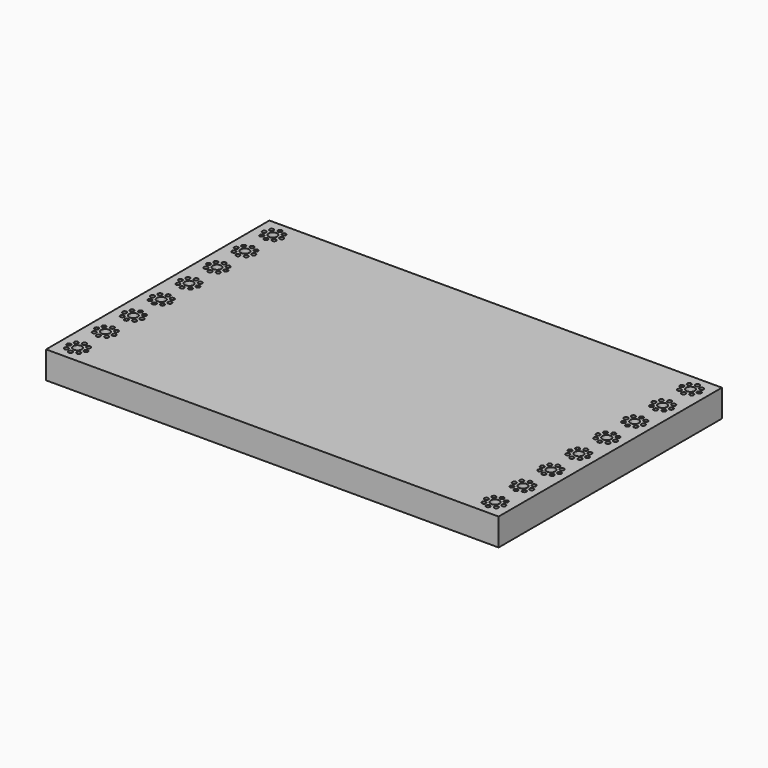
from build123d import *

# Parameters (mm, degrees)
F0_W     = 415
F0_H     = 256
F0_R     = 1.85
F0_R_2   = 4
F1_DEPTH = 25


with BuildPart() as f1:
    # F0 (on Top) → F1 (new body)
    with BuildSketch(Plane.XY):
        with Locations((-120.729751, 59.1083)):
            Rectangle(F0_W, F0_H)
        with Locations((-317.886606, -58.548554)):
            Circle(F0_R, mode=Mode.SUBTRACT)
        with Locations((-312.229751, -60.8917)):
            Circle(F0_R, mode=Mode.SUBTRACT)
        with Locations((-306.572897, -58.548554)):
            Circle(F0_R, mode=Mode.SUBTRACT)
        with Locations((-320.229751, -52.8917)):
            Circle(F0_R, mode=Mode.SUBTRACT)
        with Locations((-317.886606, -47.234846)):
            Circle(F0_R, mode=Mode.SUBTRACT)
        with Locations((-312.229751, -52.8917)):
            Circle(F0_R_2, mode=Mode.SUBTRACT)
        with Locations((-304.229751, -52.8917)):
            Circle(F0_R, mode=Mode.SUBTRACT)
        with Locations((-306.572897, -47.234846)):
            Circle(F0_R, mode=Mode.SUBTRACT)
        with Locations((-312.229751, -44.8917)):
            Circle(F0_R, mode=Mode.SUBTRACT)
        with Locations((-317.886606, -26.548554)):
            Circle(F0_R, mode=Mode.SUBTRACT)
        with Locations((-312.229751, -28.8917)):
            Circle(F0_R, mode=Mode.SUBTRACT)
        with Locations((-306.572897, -26.548554)):
            Circle(F0_R, mode=Mode.SUBTRACT)
        with Locations((-320.229751, -20.8917)):
            Circle(F0_R, mode=Mode.SUBTRACT)
        with Locations((-317.886606, -15.234846)):
            Circle(F0_R, mode=Mode.SUBTRACT)
        with Locations((-312.229751, -20.8917)):
            Circle(F0_R_2, mode=Mode.SUBTRACT)
        with Locations((-304.229751, -20.8917)):
            Circle(F0_R, mode=Mode.SUBTRACT)
        with Locations((-306.572897, -15.234846)):
            Circle(F0_R, mode=Mode.SUBTRACT)
        with Locations((-312.229751, -12.8917)):
            Circle(F0_R, mode=Mode.SUBTRACT)
        with Locations((-317.886606, 5.451446)):
            Circle(F0_R, mode=Mode.SUBTRACT)
        with Locations((-312.229751, 3.1083)):
            Circle(F0_R, mode=Mode.SUBTRACT)
        with Locations((-306.572897, 5.451446)):
            Circle(F0_R, mode=Mode.SUBTRACT)
        with Locations((-320.229751, 11.1083)):
            Circle(F0_R, mode=Mode.SUBTRACT)
        with Locations((-317.886606, 16.765154)):
            Circle(F0_R, mode=Mode.SUBTRACT)
        with Locations((-312.229751, 11.1083)):
            Circle(F0_R_2, mode=Mode.SUBTRACT)
        with Locations((-304.229751, 11.1083)):
            Circle(F0_R, mode=Mode.SUBTRACT)
        with Locations((-306.572897, 16.765154)):
            Circle(F0_R, mode=Mode.SUBTRACT)
        with Locations((-312.229751, 19.1083)):
            Circle(F0_R, mode=Mode.SUBTRACT)
        with Locations((-317.886606, 37.451446)):
            Circle(F0_R, mode=Mode.SUBTRACT)
        with Locations((-312.229751, 35.1083)):
            Circle(F0_R, mode=Mode.SUBTRACT)
        with Locations((-306.572897, 37.451446)):
            Circle(F0_R, mode=Mode.SUBTRACT)
        with Locations((-320.229751, 43.1083)):
            Circle(F0_R, mode=Mode.SUBTRACT)
        with Locations((-317.886606, 48.765154)):
            Circle(F0_R, mode=Mode.SUBTRACT)
        with Locations((-312.229751, 43.1083)):
            Circle(F0_R_2, mode=Mode.SUBTRACT)
        with Locations((-304.229751, 43.1083)):
            Circle(F0_R, mode=Mode.SUBTRACT)
        with Locations((-306.572897, 48.765154)):
            Circle(F0_R, mode=Mode.SUBTRACT)
        with Locations((-312.229751, 51.1083)):
            Circle(F0_R, mode=Mode.SUBTRACT)
        with Locations((65.113394, -58.548554)):
            Circle(F0_R, mode=Mode.SUBTRACT)
        with Locations((70.770249, -60.8917)):
            Circle(F0_R, mode=Mode.SUBTRACT)
        with Locations((62.770249, -52.8917)):
            Circle(F0_R, mode=Mode.SUBTRACT)
        with Locations((70.770249, -52.8917)):
            Circle(F0_R_2, mode=Mode.SUBTRACT)
        with Locations((76.427103, -58.548554)):
            Circle(F0_R, mode=Mode.SUBTRACT)
        with Locations((78.770249, -52.8917)):
            Circle(F0_R, mode=Mode.SUBTRACT)
        with Locations((65.113394, -47.234846)):
            Circle(F0_R, mode=Mode.SUBTRACT)
        with Locations((70.770249, -44.8917)):
            Circle(F0_R, mode=Mode.SUBTRACT)
        with Locations((76.427103, -47.234846)):
            Circle(F0_R, mode=Mode.SUBTRACT)
        with Locations((65.113394, -26.548554)):
            Circle(F0_R, mode=Mode.SUBTRACT)
        with Locations((70.770249, -28.8917)):
            Circle(F0_R, mode=Mode.SUBTRACT)
        with Locations((62.770249, -20.8917)):
            Circle(F0_R, mode=Mode.SUBTRACT)
        with Locations((70.770249, -20.8917)):
            Circle(F0_R_2, mode=Mode.SUBTRACT)
        with Locations((76.427103, -26.548554)):
            Circle(F0_R, mode=Mode.SUBTRACT)
        with Locations((78.770249, -20.8917)):
            Circle(F0_R, mode=Mode.SUBTRACT)
        with Locations((65.113394, -15.234846)):
            Circle(F0_R, mode=Mode.SUBTRACT)
        with Locations((70.770249, -12.8917)):
            Circle(F0_R, mode=Mode.SUBTRACT)
        with Locations((76.427103, -15.234846)):
            Circle(F0_R, mode=Mode.SUBTRACT)
        with Locations((65.113394, 5.451446)):
            Circle(F0_R, mode=Mode.SUBTRACT)
        with Locations((70.770249, 3.1083)):
            Circle(F0_R, mode=Mode.SUBTRACT)
        with Locations((62.770249, 11.1083)):
            Circle(F0_R, mode=Mode.SUBTRACT)
        with Locations((70.770249, 11.1083)):
            Circle(F0_R_2, mode=Mode.SUBTRACT)
        with Locations((76.427103, 5.451446)):
            Circle(F0_R, mode=Mode.SUBTRACT)
        with Locations((78.770249, 11.1083)):
            Circle(F0_R, mode=Mode.SUBTRACT)
        with Locations((65.113394, 16.765154)):
            Circle(F0_R, mode=Mode.SUBTRACT)
        with Locations((70.770249, 19.1083)):
            Circle(F0_R, mode=Mode.SUBTRACT)
        with Locations((76.427103, 16.765154)):
            Circle(F0_R, mode=Mode.SUBTRACT)
        with Locations((65.113394, 37.451446)):
            Circle(F0_R, mode=Mode.SUBTRACT)
        with Locations((70.770249, 35.1083)):
            Circle(F0_R, mode=Mode.SUBTRACT)
        with Locations((62.770249, 43.1083)):
            Circle(F0_R, mode=Mode.SUBTRACT)
        with Locations((70.770249, 43.1083)):
            Circle(F0_R_2, mode=Mode.SUBTRACT)
        with Locations((76.427103, 37.451446)):
            Circle(F0_R, mode=Mode.SUBTRACT)
        with Locations((78.770249, 43.1083)):
            Circle(F0_R, mode=Mode.SUBTRACT)
        with Locations((65.113394, 48.765154)):
            Circle(F0_R, mode=Mode.SUBTRACT)
        with Locations((70.770249, 51.1083)):
            Circle(F0_R, mode=Mode.SUBTRACT)
        with Locations((76.427103, 48.765154)):
            Circle(F0_R, mode=Mode.SUBTRACT)
        with Locations((-317.886606, 69.451446)):
            Circle(F0_R, mode=Mode.SUBTRACT)
        with Locations((-312.229751, 67.1083)):
            Circle(F0_R, mode=Mode.SUBTRACT)
        with Locations((-306.572897, 69.451446)):
            Circle(F0_R, mode=Mode.SUBTRACT)
        with Locations((-320.229751, 75.1083)):
            Circle(F0_R, mode=Mode.SUBTRACT)
        with Locations((-317.886606, 80.765154)):
            Circle(F0_R, mode=Mode.SUBTRACT)
        with Locations((-312.229751, 75.1083)):
            Circle(F0_R_2, mode=Mode.SUBTRACT)
        with Locations((-304.229751, 75.1083)):
            Circle(F0_R, mode=Mode.SUBTRACT)
        with Locations((-306.572897, 80.765154)):
            Circle(F0_R, mode=Mode.SUBTRACT)
        with Locations((-312.229751, 83.1083)):
            Circle(F0_R, mode=Mode.SUBTRACT)
        with Locations((-317.886606, 101.451446)):
            Circle(F0_R, mode=Mode.SUBTRACT)
        with Locations((-312.229751, 99.1083)):
            Circle(F0_R, mode=Mode.SUBTRACT)
        with Locations((-306.572897, 101.451446)):
            Circle(F0_R, mode=Mode.SUBTRACT)
        with Locations((-320.229751, 107.1083)):
            Circle(F0_R, mode=Mode.SUBTRACT)
        with Locations((-317.886606, 112.765154)):
            Circle(F0_R, mode=Mode.SUBTRACT)
        with Locations((-312.229751, 107.1083)):
            Circle(F0_R_2, mode=Mode.SUBTRACT)
        with Locations((-304.229751, 107.1083)):
            Circle(F0_R, mode=Mode.SUBTRACT)
        with Locations((-306.572897, 112.765154)):
            Circle(F0_R, mode=Mode.SUBTRACT)
        with Locations((-312.229751, 115.1083)):
            Circle(F0_R, mode=Mode.SUBTRACT)
        with Locations((-317.886606, 133.451446)):
            Circle(F0_R, mode=Mode.SUBTRACT)
        with Locations((-312.229751, 131.1083)):
            Circle(F0_R, mode=Mode.SUBTRACT)
        with Locations((-306.572897, 133.451446)):
            Circle(F0_R, mode=Mode.SUBTRACT)
        with Locations((-320.229751, 139.1083)):
            Circle(F0_R, mode=Mode.SUBTRACT)
        with Locations((-317.886606, 144.765154)):
            Circle(F0_R, mode=Mode.SUBTRACT)
        with Locations((-312.229751, 139.1083)):
            Circle(F0_R_2, mode=Mode.SUBTRACT)
        with Locations((-304.229751, 139.1083)):
            Circle(F0_R, mode=Mode.SUBTRACT)
        with Locations((-306.572897, 144.765154)):
            Circle(F0_R, mode=Mode.SUBTRACT)
        with Locations((-312.229751, 147.1083)):
            Circle(F0_R, mode=Mode.SUBTRACT)
        with Locations((-317.886606, 165.451446)):
            Circle(F0_R, mode=Mode.SUBTRACT)
        with Locations((-312.229751, 163.1083)):
            Circle(F0_R, mode=Mode.SUBTRACT)
        with Locations((-306.572897, 165.451446)):
            Circle(F0_R, mode=Mode.SUBTRACT)
        with Locations((-320.229751, 171.1083)):
            Circle(F0_R, mode=Mode.SUBTRACT)
        with Locations((-317.886606, 176.765154)):
            Circle(F0_R, mode=Mode.SUBTRACT)
        with Locations((-312.229751, 171.1083)):
            Circle(F0_R_2, mode=Mode.SUBTRACT)
        with Locations((-304.229751, 171.1083)):
            Circle(F0_R, mode=Mode.SUBTRACT)
        with Locations((-306.572897, 176.765154)):
            Circle(F0_R, mode=Mode.SUBTRACT)
        with Locations((-312.229751, 179.1083)):
            Circle(F0_R, mode=Mode.SUBTRACT)
        with Locations((65.113394, 69.451446)):
            Circle(F0_R, mode=Mode.SUBTRACT)
        with Locations((70.770249, 67.1083)):
            Circle(F0_R, mode=Mode.SUBTRACT)
        with Locations((76.427103, 69.451446)):
            Circle(F0_R, mode=Mode.SUBTRACT)
        with Locations((62.770249, 75.1083)):
            Circle(F0_R, mode=Mode.SUBTRACT)
        with Locations((70.770249, 75.1083)):
            Circle(F0_R_2, mode=Mode.SUBTRACT)
        with Locations((65.113394, 80.765154)):
            Circle(F0_R, mode=Mode.SUBTRACT)
        with Locations((78.770249, 75.1083)):
            Circle(F0_R, mode=Mode.SUBTRACT)
        with Locations((76.427103, 80.765154)):
            Circle(F0_R, mode=Mode.SUBTRACT)
        with Locations((70.770249, 83.1083)):
            Circle(F0_R, mode=Mode.SUBTRACT)
        with Locations((65.113394, 101.451446)):
            Circle(F0_R, mode=Mode.SUBTRACT)
        with Locations((70.770249, 99.1083)):
            Circle(F0_R, mode=Mode.SUBTRACT)
        with Locations((76.427103, 101.451446)):
            Circle(F0_R, mode=Mode.SUBTRACT)
        with Locations((62.770249, 107.1083)):
            Circle(F0_R, mode=Mode.SUBTRACT)
        with Locations((70.770249, 107.1083)):
            Circle(F0_R_2, mode=Mode.SUBTRACT)
        with Locations((65.113394, 112.765154)):
            Circle(F0_R, mode=Mode.SUBTRACT)
        with Locations((78.770249, 107.1083)):
            Circle(F0_R, mode=Mode.SUBTRACT)
        with Locations((76.427103, 112.765154)):
            Circle(F0_R, mode=Mode.SUBTRACT)
        with Locations((70.770249, 115.1083)):
            Circle(F0_R, mode=Mode.SUBTRACT)
        with Locations((65.113394, 133.451446)):
            Circle(F0_R, mode=Mode.SUBTRACT)
        with Locations((70.770249, 131.1083)):
            Circle(F0_R, mode=Mode.SUBTRACT)
        with Locations((76.427103, 133.451446)):
            Circle(F0_R, mode=Mode.SUBTRACT)
        with Locations((78.770249, 139.1083)):
            Circle(F0_R, mode=Mode.SUBTRACT)
        with Locations((62.770249, 139.1083)):
            Circle(F0_R, mode=Mode.SUBTRACT)
        with Locations((70.770249, 139.1083)):
            Circle(F0_R_2, mode=Mode.SUBTRACT)
        with Locations((65.113394, 144.765154)):
            Circle(F0_R, mode=Mode.SUBTRACT)
        with Locations((76.427103, 144.765154)):
            Circle(F0_R, mode=Mode.SUBTRACT)
        with Locations((70.770249, 147.1083)):
            Circle(F0_R, mode=Mode.SUBTRACT)
        with Locations((65.113394, 165.451446)):
            Circle(F0_R, mode=Mode.SUBTRACT)
        with Locations((70.770249, 163.1083)):
            Circle(F0_R, mode=Mode.SUBTRACT)
        with Locations((76.427103, 165.451446)):
            Circle(F0_R, mode=Mode.SUBTRACT)
        with Locations((78.770249, 171.1083)):
            Circle(F0_R, mode=Mode.SUBTRACT)
        with Locations((62.770249, 171.1083)):
            Circle(F0_R, mode=Mode.SUBTRACT)
        with Locations((70.770249, 171.1083)):
            Circle(F0_R_2, mode=Mode.SUBTRACT)
        with Locations((65.113394, 176.765154)):
            Circle(F0_R, mode=Mode.SUBTRACT)
        with Locations((76.427103, 176.765154)):
            Circle(F0_R, mode=Mode.SUBTRACT)
        with Locations((70.770249, 179.1083)):
            Circle(F0_R, mode=Mode.SUBTRACT)
    extrude(amount=F1_DEPTH)


solid = f1.part
